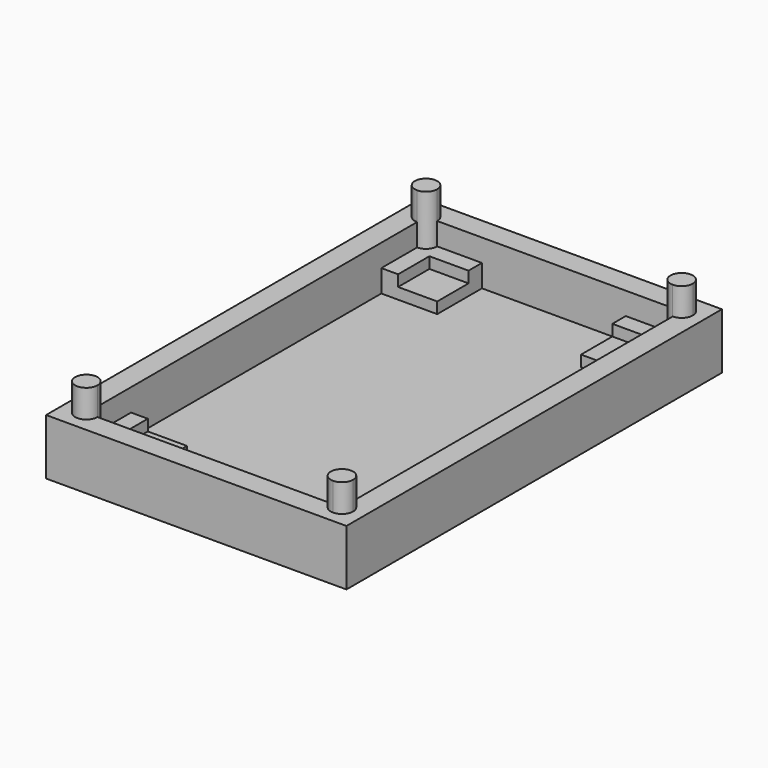
from build123d import *

# Parameters (mm, degrees)
F1_DEPTH = 10
F2_DEPTH = 6
F3_DEPTH = 15
F0_W     = 7
F0_H     = 7
F4_DEPTH = 4
F5_DEPTH = 2


with BuildPart() as f1:
    # F0 (on Top) → F1 (new body)
    with BuildSketch(Plane.XY):
        with BuildLine():
            Line((26.5840129331, 34.7330055023), (-23.1406439107, 34.7330055023))
            Line((-23.1406439107, 34.7330055023), (-23.1406439107, 32.7330055023))
            ThreePointArc((-23.1406439107, 32.7330055023), (-21.7264303483, 32.1472190646), (-21.1406439107, 30.7330055023))
            Line((-21.1406439107, 30.7330055023), (-13.1406439107, 30.7330055023))
            Line((-13.1406439107, 30.7330055023), (12.5840129331, 30.7330055023))
            Line((12.5840129331, 30.7330055023), (20.5840129331, 30.7330055023))
            ThreePointArc((20.5840129331, 30.7330055023), (22.5840129331, 32.7330055023), (24.5840129331, 30.7330055023))
            ThreePointArc((24.5840129331, 30.7330055023), (23.9982264954, 29.3187919399), (22.5840129331, 28.7330055023))
            Line((22.5840129331, 28.7330055023), (22.5840129331, 20.7330055023))
            Line((22.5840129331, 20.7330055023), (22.5840129331, -35.2227493608))
            Line((22.5840129331, -35.2227493608), (22.5840129331, -43.2227493608))
            ThreePointArc((22.5840129331, -43.2227493608), (23.9982264954, -43.8085357985), (24.5840129331, -45.2227493608))
            Line((24.5840129331, -45.2227493608), (26.5840129331, -45.2227493608))
            Line((26.5840129331, -45.2227493608), (26.5840129331, 34.7330055023))
        make_face()
        with BuildLine():
            Line((-23.1406439107, 34.7330055023), (-27.1406439107, 34.7330055023))
            Line((-27.1406439107, 34.7330055023), (-27.1406439107, 30.7330055023))
            Line((-27.1406439107, 30.7330055023), (-25.1406439107, 30.7330055023))
            ThreePointArc((-25.1406439107, 30.7330055023), (-24.5548574731, 32.1472190646), (-23.1406439107, 32.7330055023))
            Line((-23.1406439107, 32.7330055023), (-23.1406439107, 34.7330055023))
        make_face()
        with BuildLine():
            Line((-25.1406439107, 30.7330055023), (-27.1406439107, 30.7330055023))
            Line((-27.1406439107, 30.7330055023), (-27.1406439107, -49.2227493608))
            Line((-27.1406439107, -49.2227493608), (22.5840129331, -49.2227493608))
            Line((22.5840129331, -49.2227493608), (22.5840129331, -47.2227493608))
            ThreePointArc((22.5840129331, -47.2227493608), (21.1697993707, -46.6369629232), (20.5840129331, -45.2227493608))
            Line((20.5840129331, -45.2227493608), (12.5840129331, -45.2227493608))
            Line((12.5840129331, -45.2227493608), (-13.1406439107, -45.2227493608))
            Line((-13.1406439107, -45.2227493608), (-21.1406439107, -45.2227493608))
            ThreePointArc((-21.1406439107, -45.2227493608), (-24.5548574731, -46.6369629232), (-23.1406439107, -43.2227493608))
            Line((-23.1406439107, -43.2227493608), (-23.1406439107, -35.2227493608))
            Line((-23.1406439107, -35.2227493608), (-23.1406439107, 20.7330055023))
            Line((-23.1406439107, 20.7330055023), (-23.1406439107, 28.7330055023))
            ThreePointArc((-23.1406439107, 28.7330055023), (-24.5548574731, 29.3187919399), (-25.1406439107, 30.7330055023))
        make_face()
        with BuildLine():
            Line((26.5840129331, -49.2227493608), (26.5840129331, -45.2227493608))
            Line((26.5840129331, -45.2227493608), (24.5840129331, -45.2227493608))
            ThreePointArc((24.5840129331, -45.2227493608), (23.9982264954, -46.6369629232), (22.5840129331, -47.2227493608))
            Line((22.5840129331, -47.2227493608), (22.5840129331, -49.2227493608))
            Line((22.5840129331, -49.2227493608), (26.5840129331, -49.2227493608))
        make_face()
    extrude(amount=F1_DEPTH)

    # F0 (on Top) → F2 (join)
    with BuildSketch(Plane.XY):
        with BuildLine():
            Line((-13.1406439107, 30.7330055023), (-21.1406439107, 30.7330055023))
            ThreePointArc((-21.1406439107, 30.7330055023), (-21.7264303483, 29.3187919399), (-23.1406439107, 28.7330055023))
            Line((-23.1406439107, 28.7330055023), (-23.1406439107, 20.7330055023))
            Line((-23.1406439107, 20.7330055023), (-20.1406439107, 20.7330055023))
            Line((-20.1406439107, 20.7330055023), (-20.1406439107, 27.7330055023))
            Line((-20.1406439107, 27.7330055023), (-13.1406439107, 27.7330055023))
            Line((-13.1406439107, 27.7330055023), (-13.1406439107, 30.7330055023))
        make_face()
        with BuildLine():
            Line((20.5840129331, 30.7330055023), (12.5840129331, 30.7330055023))
            Line((12.5840129331, 30.7330055023), (12.5840129331, 27.7330055023))
            Line((12.5840129331, 27.7330055023), (19.5840129331, 27.7330055023))
            Line((19.5840129331, 27.7330055023), (19.5840129331, 20.7330055023))
            Line((19.5840129331, 20.7330055023), (22.5840129331, 20.7330055023))
            Line((22.5840129331, 20.7330055023), (22.5840129331, 28.7330055023))
            ThreePointArc((22.5840129331, 28.7330055023), (21.1697993707, 29.3187919399), (20.5840129331, 30.7330055023))
        make_face()
        with BuildLine():
            ThreePointArc((20.5840129331, -45.2227493608), (21.1697993707, -43.8085357985), (22.5840129331, -43.2227493608))
            Line((22.5840129331, -43.2227493608), (22.5840129331, -35.2227493608))
            Line((22.5840129331, -35.2227493608), (19.5840129331, -35.2227493608))
            Line((19.5840129331, -35.2227493608), (19.5840129331, -42.2227493608))
            Line((19.5840129331, -42.2227493608), (12.5840129331, -42.2227493608))
            Line((12.5840129331, -42.2227493608), (12.5840129331, -45.2227493608))
            Line((12.5840129331, -45.2227493608), (20.5840129331, -45.2227493608))
        make_face()
        with BuildLine():
            Line((-20.1406439107, -35.2227493608), (-23.1406439107, -35.2227493608))
            Line((-23.1406439107, -35.2227493608), (-23.1406439107, -43.2227493608))
            ThreePointArc((-23.1406439107, -43.2227493608), (-21.7264303483, -43.8085357985), (-21.1406439107, -45.2227493608))
            Line((-21.1406439107, -45.2227493608), (-13.1406439107, -45.2227493608))
            Line((-13.1406439107, -45.2227493608), (-13.1406439107, -42.2227493608))
            Line((-13.1406439107, -42.2227493608), (-20.1406439107, -42.2227493608))
            Line((-20.1406439107, -42.2227493608), (-20.1406439107, -35.2227493608))
        make_face()
    extrude(amount=F2_DEPTH)

    # F0 (on Top) → F3 (join)
    with BuildSketch(Plane.XY):
        with BuildLine():
            Line((-21.1406439107, 30.7330055023), (-23.1406439107, 30.7330055023))
            Line((-23.1406439107, 30.7330055023), (-23.1406439107, 28.7330055023))
            ThreePointArc((-23.1406439107, 28.7330055023), (-21.7264303483, 29.3187919399), (-21.1406439107, 30.7330055023))
        make_face()
        with BuildLine():
            Line((-23.1406439107, 30.7330055023), (-23.1406439107, 32.7330055023))
            ThreePointArc((-23.1406439107, 32.7330055023), (-24.5548574731, 32.1472190646), (-25.1406439107, 30.7330055023))
            Line((-25.1406439107, 30.7330055023), (-23.1406439107, 30.7330055023))
        make_face()
        with BuildLine():
            ThreePointArc((-21.1406439107, 30.7330055023), (-21.7264303483, 32.1472190646), (-23.1406439107, 32.7330055023))
            Line((-23.1406439107, 32.7330055023), (-23.1406439107, 30.7330055023))
            Line((-23.1406439107, 30.7330055023), (-21.1406439107, 30.7330055023))
        make_face()
        with BuildLine():
            Line((-23.1406439107, 30.7330055023), (-25.1406439107, 30.7330055023))
            ThreePointArc((-25.1406439107, 30.7330055023), (-24.5548574731, 29.3187919399), (-23.1406439107, 28.7330055023))
            Line((-23.1406439107, 28.7330055023), (-23.1406439107, 30.7330055023))
        make_face()
        with BuildLine():
            ThreePointArc((24.5840129331, 30.7330055023), (22.5840129331, 32.7330055023), (20.5840129331, 30.7330055023))
            Line((20.5840129331, 30.7330055023), (22.5840129331, 30.7330055023))
            Line((22.5840129331, 30.7330055023), (22.5840129331, 28.7330055023))
            ThreePointArc((22.5840129331, 28.7330055023), (23.9982264954, 29.3187919399), (24.5840129331, 30.7330055023))
        make_face()
        with BuildLine():
            Line((22.5840129331, 30.7330055023), (20.5840129331, 30.7330055023))
            ThreePointArc((20.5840129331, 30.7330055023), (21.1697993707, 29.3187919399), (22.5840129331, 28.7330055023))
            Line((22.5840129331, 28.7330055023), (22.5840129331, 30.7330055023))
        make_face()
        with BuildLine():
            Line((20.5840129331, -45.2227493608), (22.5840129331, -45.2227493608))
            Line((22.5840129331, -45.2227493608), (22.5840129331, -43.2227493608))
            ThreePointArc((22.5840129331, -43.2227493608), (21.1697993707, -43.8085357985), (20.5840129331, -45.2227493608))
        make_face()
        with BuildLine():
            Line((22.5840129331, -45.2227493608), (24.5840129331, -45.2227493608))
            ThreePointArc((24.5840129331, -45.2227493608), (23.9982264954, -43.8085357985), (22.5840129331, -43.2227493608))
            Line((22.5840129331, -43.2227493608), (22.5840129331, -45.2227493608))
        make_face()
        with BuildLine():
            ThreePointArc((22.5840129331, -47.2227493608), (23.9982264954, -46.6369629232), (24.5840129331, -45.2227493608))
            Line((24.5840129331, -45.2227493608), (22.5840129331, -45.2227493608))
            Line((22.5840129331, -45.2227493608), (22.5840129331, -47.2227493608))
        make_face()
        with BuildLine():
            ThreePointArc((20.5840129331, -45.2227493608), (21.1697993707, -46.6369629232), (22.5840129331, -47.2227493608))
            Line((22.5840129331, -47.2227493608), (22.5840129331, -45.2227493608))
            Line((22.5840129331, -45.2227493608), (20.5840129331, -45.2227493608))
        make_face()
        with BuildLine():
            ThreePointArc((-21.1406439107, -45.2227493608), (-21.7264303483, -43.8085357985), (-23.1406439107, -43.2227493608))
            Line((-23.1406439107, -43.2227493608), (-23.1406439107, -45.2227493608))
            Line((-23.1406439107, -45.2227493608), (-21.1406439107, -45.2227493608))
        make_face()
        with BuildLine():
            Line((-23.1406439107, -45.2227493608), (-23.1406439107, -43.2227493608))
            ThreePointArc((-23.1406439107, -43.2227493608), (-24.5548574731, -46.6369629232), (-21.1406439107, -45.2227493608))
            Line((-21.1406439107, -45.2227493608), (-23.1406439107, -45.2227493608))
        make_face()
    extrude(amount=F3_DEPTH)

    # F0 (on Top) → F4 (join)
    with BuildSketch(Plane.XY):
        with Locations((-16.6406439107, 24.2330055023)):
            Rectangle(F0_W, F0_H)
        with Locations((16.0840129331, 24.2330055023)):
            Rectangle(F0_W, F0_H)
        with Locations((16.0840129331, -38.7227493608)):
            Rectangle(F0_W, F0_H)
        with Locations((-16.6406439107, -38.7227493608)):
            Rectangle(F0_W, F0_H)
    extrude(amount=F4_DEPTH)

    # F0 (on Top) → F5 (join)
    with BuildSketch(Plane.XY):
        Polygon((12.5840129331, 30.7330055023), (-13.1406439107, 30.7330055023), (-13.1406439107, 27.7330055023), (-13.1406439107, 20.7330055023), (-20.1406439107, 20.7330055023), (-23.1406439107, 20.7330055023), (-23.1406439107, -35.2227493608), (-20.1406439107, -35.2227493608), (-13.1406439107, -35.2227493608), (-13.1406439107, -42.2227493608), (-13.1406439107, -45.2227493608), (12.5840129331, -45.2227493608), (12.5840129331, -42.2227493608), (12.5840129331, -35.2227493608), (19.5840129331, -35.2227493608), (22.5840129331, -35.2227493608), (22.5840129331, 20.7330055023), (19.5840129331, 20.7330055023), (12.5840129331, 20.7330055023), (12.5840129331, 27.7330055023), align=None)
    extrude(amount=F5_DEPTH)


solid = f1.part
